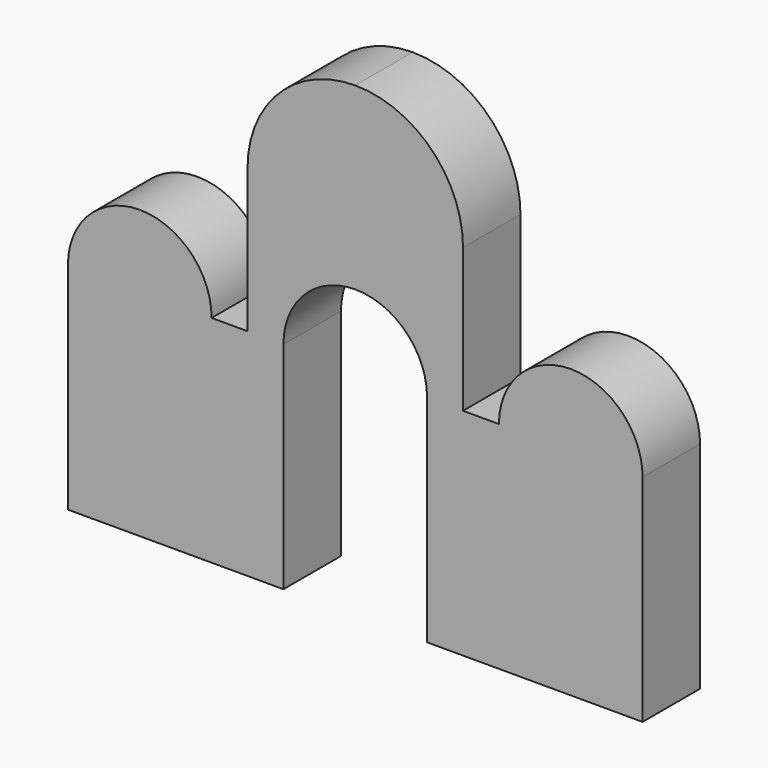
from build123d import *

# Parameters (mm, degrees)
F1_DEPTH = 25.4


with BuildPart() as f1:
    # F0 (on Front) → F1 (new body)
    with BuildSketch(Plane.XZ):
        with BuildLine():
            Line((0, 76.2), (0, 0))
            Line((0, 0), (76.2, 0))
            Line((76.2, 0), (76.2, 76.2))
            ThreePointArc((76.2, 76.2), (83.639488, 94.160512), (101.6, 101.6))
            ThreePointArc((101.6, 101.6), (119.560512, 94.160512), (127, 76.2))
            Line((127, 76.2), (127, 0))
            Line((127, 0), (203.2, 0))
            Line((203.2, 0), (203.2, 76.2))
            ThreePointArc((203.2, 76.2), (177.8, 101.6), (152.4, 76.2))
            Line((152.4, 76.2), (139.7, 76.2))
            Line((139.7, 76.2), (139.7, 127))
            ThreePointArc((139.7, 127), (128.540768, 153.940768), (101.6, 165.1))
            ThreePointArc((101.6, 165.1), (74.659232, 153.940768), (63.5, 127))
            Line((63.5, 127), (63.5, 76.2))
            Line((63.5, 76.2), (50.8, 76.2))
            ThreePointArc((50.8, 76.2), (25.4, 101.6), (0, 76.2))
        make_face()
    extrude(amount=F1_DEPTH)


solid = f1.part
